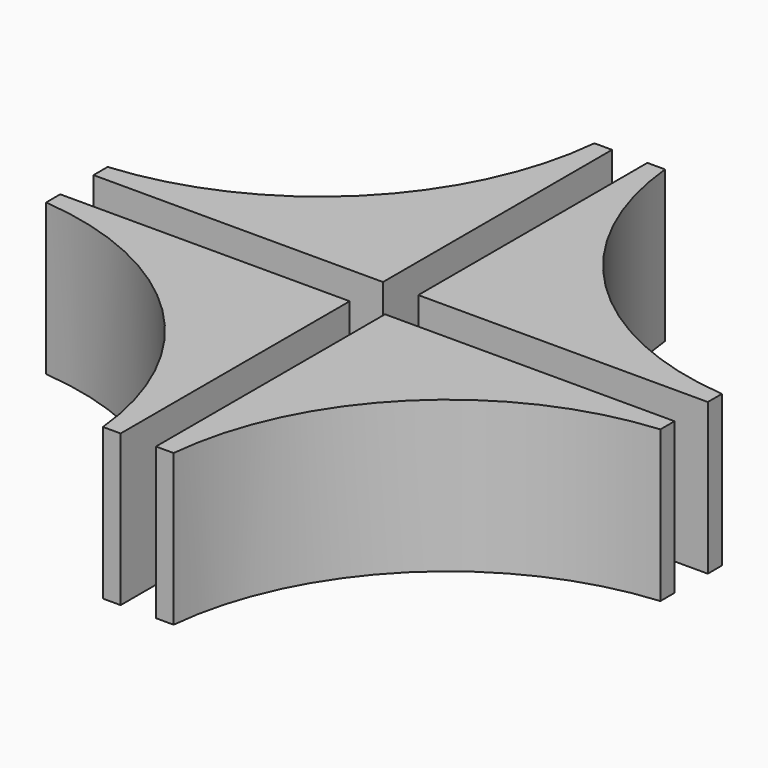
from build123d import *

# Parameters (mm, degrees)
F1_DEPTH = 50


with BuildPart() as f1:
    # F0 (on Top) → F1 (new body)
    with BuildSketch(Plane.XY):
        with BuildLine():
            Line((-5.842, -101.6), (-5.842, -6.880943))
            Line((-5.842, -6.880943), (-101.6, -6.880943))
            Line((-101.6, -6.880943), (-101.6, -12.722943))
            ThreePointArc((-101.6, -12.722943), (-40.585001, -40.916772), (-11.684, -101.6))
            Line((-11.684, -101.6), (-5.842, -101.6))
        make_face()
        with BuildLine():
            Line((-101.6, 6.880943), (-5.842, 6.880943))
            Line((-5.842, 6.880943), (-5.842, 101.6))
            Line((-5.842, 101.6), (-11.684, 101.6))
            ThreePointArc((-11.684, 101.6), (-40.585001, 40.916772), (-101.6, 12.722943))
            Line((-101.6, 12.722943), (-101.6, 6.880943))
        make_face()
        with BuildLine():
            Line((5.842, 101.6), (5.842, 6.880943))
            Line((5.842, 6.880943), (101.6, 6.880943))
            Line((101.6, 6.880943), (101.6, 12.722943))
            ThreePointArc((101.6, 12.722943), (40.585001, 40.916772), (11.684, 101.6))
            Line((11.684, 101.6), (5.842, 101.6))
        make_face()
        with BuildLine():
            Line((101.6, -6.880943), (5.842, -6.880943))
            Line((5.842, -6.880943), (5.842, -101.6))
            Line((5.842, -101.6), (11.684, -101.6))
            ThreePointArc((11.684, -101.6), (40.585001, -40.916772), (101.6, -12.722943))
            Line((101.6, -12.722943), (101.6, -6.880943))
        make_face()
    extrude(amount=F1_DEPTH)


solid = f1.part
